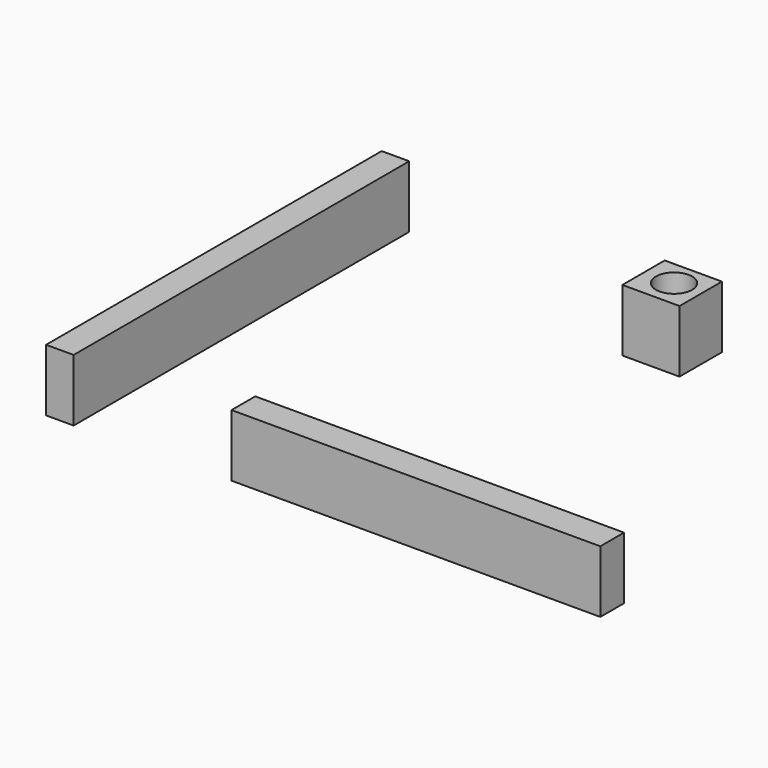
from build123d import *

# Parameters (mm, degrees)
F0_W     = 5.624492
F0_H     = 85.66533
F0_W_2   = 11.681639
F0_H_2   = 10.816324
F0_R     = 3.696591
F0_W_3   = 75.310782
F0_H_3   = 6.057143
F1_DEPTH = 12.7


with BuildPart() as f1:
    # F0 (on Top) → F1 (new body)
    with BuildSketch(Plane.XY):
        with Locations((-34.366803, 0.801295)):
            Rectangle(F0_W, F0_H)
        with Locations((27.502603, 36.927836)):
            Rectangle(F0_W_2, F0_H_2)
        with Locations((27.71893, 37.144162)):
            Circle(F0_R, mode=Mode.SUBTRACT)
        with Locations((37.655391, -38.137491)):
            Rectangle(F0_W_3, F0_H_3)
    extrude(amount=F1_DEPTH)


solid = f1.part
